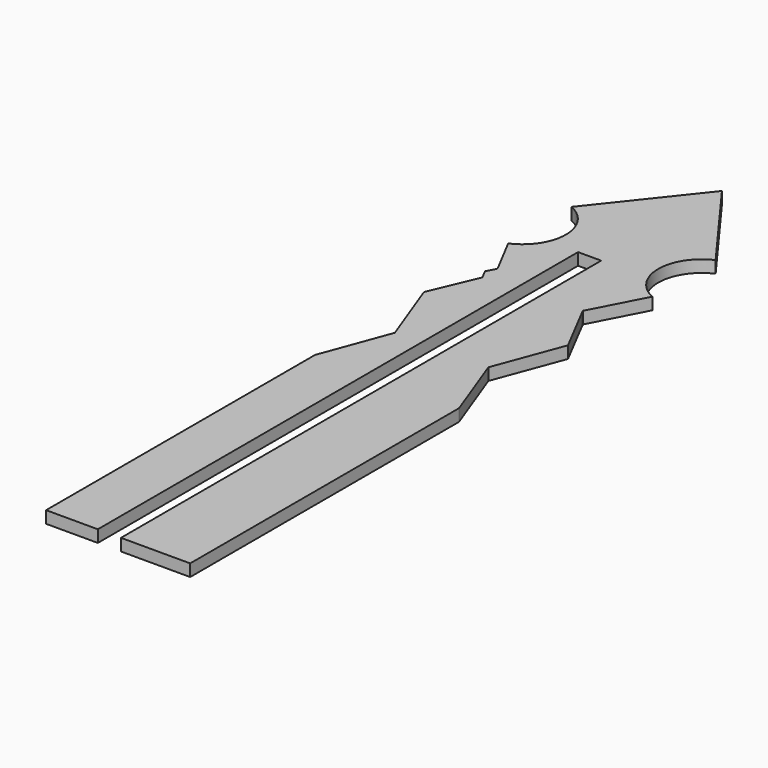
from build123d import *

# Parameters (mm, degrees)
F1_DEPTH = 1.27
F2_DEPTH = 25.4


with BuildPart() as f1:
    # F0 (on Top) → F1 (new body)
    with BuildSketch(Plane.XY):
        with BuildLine():
            Line((-7.8964941204, 0.594703597), (-7.8964941204, -9.457487613))
            Line((-7.8964941204, -9.457487613), (-2.4395394139, -9.457487613))
            Line((-2.4395394139, -9.457487613), (-2.4395394139, 28.4462347627))
            Line((-2.4395394139, 28.4462347627), (0, 28.4462347627))
            Line((0, 28.4462347627), (0, -9.457487613))
            Line((0, -9.457487613), (7.2978408041, -9.457487613))
            Line((7.2978408041, -9.457487613), (7.2978408041, 0.594703597))
            Line((7.2978408041, 0.594703597), (4.625886213, 7.7879833989))
            Line((4.625886213, 7.7879833989), (7.2978408041, 14.9506824091))
            Line((7.2978408041, 14.9506824091), (4.6798829606, 19.9893178358))
            Line((4.6798829606, 19.9893178358), (4.410501927, 20.5077802788))
            Line((4.410501927, 20.5077802788), (5.1833918382, 21.9942174312))
            Line((5.1833918382, 21.9942174312), (7.2978408041, 26.0607674718))
            ThreePointArc((7.2978408041, 26.0607674718), (4.591156401, 30.2353352308), (7.2978408041, 34.4099029899))
            Line((7.2978408041, 34.4099029899), (-7.8964941204, 34.4099029899))
            ThreePointArc((-7.8964941204, 34.4099029899), (-5.1649912395, 30.2353352308), (-7.8964941204, 26.0607674718))
            Line((-7.8964941204, 26.0607674718), (-5.7663979357, 21.9942174312))
            Line((-5.7663979357, 21.9942174312), (-6.2874402602, 20.992138535))
            Line((-6.2874402602, 20.992138535), (-5.7663979357, 19.9893178358))
            Line((-5.7663979357, 19.9893178358), (-7.8964941204, 14.9506824091))
            Line((-7.8964941204, 14.9506824091), (-5.2315704525, 7.7879833989))
            Line((-5.2315704525, 7.7879833989), (-7.8964941204, 0.594703597))
        make_face()
        Polygon((0, 44.3628914654), (-7.8964941204, 34.4099029899), (7.2978408041, 34.4099029899), align=None)
    extrude(amount=F1_DEPTH)

    # F2 (add): faces of the model
    f2_faces = [f1.faces().sort_by_distance(p)[0] for p in [
        (-5.1680167671, -9.457487613, 0.635),
        (3.648920402, -9.457487613, 0.635),
    ]]
    extrude(f2_faces, amount=F2_DEPTH)


solid = f1.part
